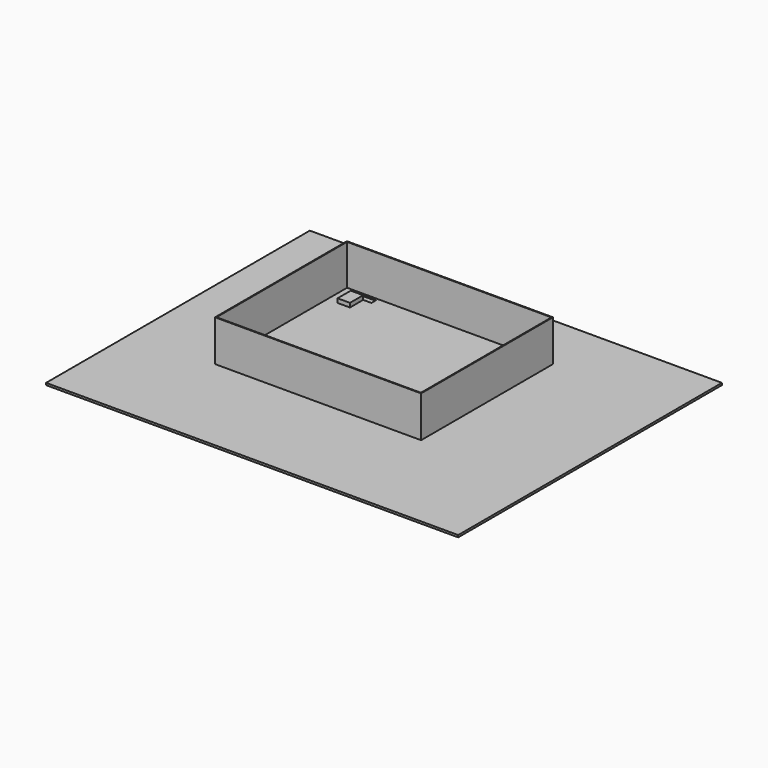
from build123d import *

# Parameters (mm, degrees)
F0_W     = 635
F0_H     = 127
F1_DEPTH = 508
F2_T     = -2.54
F3_W     = 38.1
F3_H     = 50.8
F4_DEPTH = 12.7
F3_W_2   = 12.7
F3_H_2   = 19.05
F5_DEPTH = 25.4
F7_W     = 1270
F7_H     = 1016
F8_DEPTH = 6.35


with BuildPart() as f1:
    # F0 (on Front) → F1 (new body)
    with BuildSketch(Plane.XZ):
        with Locations((317.5, 63.5)):
            Rectangle(F0_W, F0_H)
    extrude(amount=F1_DEPTH)

    # F2
    f2_openings = [f1.faces().sort_by_distance(p)[0] for p in [
        (317.5, -254, 127),
    ]]
    offset(amount=F2_T, openings=f2_openings)

    # F3 (on face) → F4 (join)
    with BuildSketch(Plane.XY.offset(2.54)):
        with Locations((53.34, -53.34)):
            Rectangle(F3_W, F3_H)
        with Locations((581.66, -53.34)):
            Rectangle(F3_W, F3_H)
        with Locations((581.66, -454.66)):
            Rectangle(F3_W, F3_H)
        with Locations((53.34, -454.66)):
            Rectangle(F3_W, F3_H)
        with Locations((53.34, -53.34)):
            Rectangle(F3_W, F3_H)
        with Locations((581.66, -53.34)):
            Rectangle(F3_W, F3_H)
    extrude(amount=F4_DEPTH)

    # F3 (on face) → F5 (cut)
    with BuildSketch(Plane.XY.offset(2.54)):
        Polygon((72.39, -480.06), (34.29, -480.06), (21.59, -480.06), (21.59, -499.11), (97.79, -499.11), (97.79, -480.06), align=None)
        Polygon((34.29, -8.89), (34.29, -27.94), (72.39, -27.94), (97.79, -27.94), (97.79, -8.89), align=None)
        with Locations((27.94, -18.415)):
            Rectangle(F3_W_2, F3_H_2)
        Polygon((600.71, -27.94), (616.585, -27.94), (616.585, -8.89), (540.385, -8.89), (540.385, -27.94), (562.61, -27.94), align=None)
        Polygon((600.71, -480.06), (562.61, -480.06), (540.385, -480.06), (540.385, -499.11), (616.585, -499.11), (616.585, -480.06), align=None)
    extrude(amount=-F5_DEPTH, mode=Mode.SUBTRACT)


with BuildPart() as f8:
    # F7 (on offset) → F8 (new body)
    with BuildSketch(Plane(origin=(0, 0, -50.8), x_dir=(1, 0, 0), z_dir=(0, 0, -1))):
        with Locations((317.5, 254)):
            Rectangle(F7_W, F7_H)
    extrude(amount=F8_DEPTH)


solid = Compound([f1.part, f8.part])
